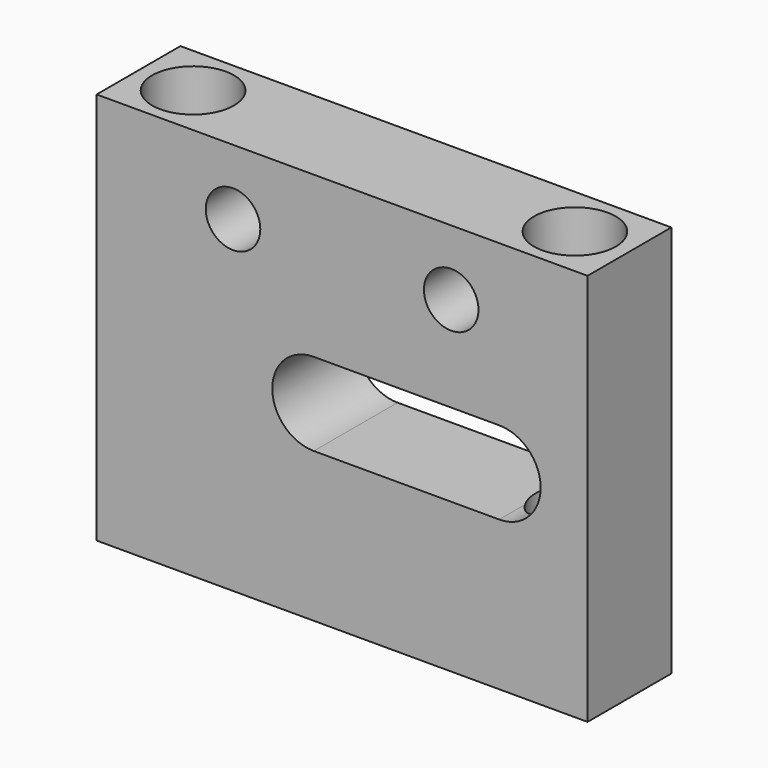
from build123d import *

# Parameters (mm, degrees)
F0_W     = 57.15
F0_H     = 45.72
F0_R     = 3.175
F1_DEPTH = 6.096
F2_R     = 4.572
F3_DEPTH = 45.721
F4_R     = 4.7625
F5_DEPTH = 12.7
F6_R     = 4.7625
F7_DEPTH = 12.7


with BuildPart() as f1:
    # F0 (on Front) → F1 (new body, symmetric)
    with BuildSketch(Plane.XZ):
        with Locations((0, 0.635)):
            Rectangle(F0_W, F0_H)
        with BuildLine():
            ThreePointArc((-3.302, -4.826), (-8.128, 0), (-3.302, 4.826))
            Line((-3.302, 4.826), (18.288, 4.826))
            ThreePointArc((18.288, 4.826), (23.114, 0), (18.288, -4.826))
            Line((18.288, -4.826), (-3.302, -4.826))
        make_face(mode=Mode.SUBTRACT)
        with Locations((-12.7, 15.875)):
            Circle(F0_R, mode=Mode.SUBTRACT)
        with Locations((12.7, 15.875)):
            Circle(F0_R, mode=Mode.SUBTRACT)
    extrude(amount=F1_DEPTH, both=True)

    # F2 (on face) → F3 (cut, through all)
    with BuildSketch(Plane.XY.offset(23.495)):
        with Locations((-22.225, 0)):
            Circle(F2_R)
        with Locations((22.225, 0)):
            Circle(F2_R)
    extrude(amount=-F3_DEPTH, mode=Mode.SUBTRACT)

    # F4 (on face) → F5 (cut)
    with BuildSketch(Plane.XY.offset(23.495)):
        with Locations((-22.225, 0)):
            Circle(F4_R)
        with Locations((22.225, 0)):
            Circle(F4_R)
    extrude(amount=-F5_DEPTH, mode=Mode.SUBTRACT)

    # F6 (on face) → F7 (cut)
    with BuildSketch(Plane(origin=(0, 0, -22.225), x_dir=(1, 0, 0), z_dir=(0, 0, -1))):
        with Locations((22.225, 0)):
            Circle(F6_R)
        with Locations((-22.225, 0)):
            Circle(F6_R)
    extrude(amount=-F7_DEPTH, mode=Mode.SUBTRACT)


solid = f1.part
